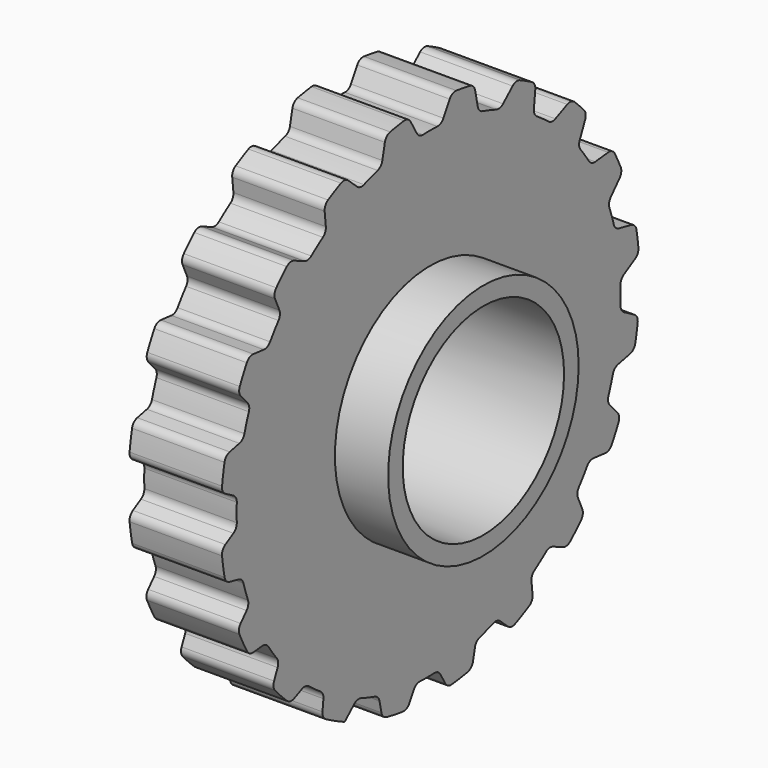
from build123d import *

# Parameters (mm, degrees)
F1_START = 347.5
F0_R     = 93.5
F0_R_2   = 42.5
F1_DEPTH = 33
F3_START = 347.5
F2_R     = 42.5
F2_R_2   = 36
F3_DEPTH = 52
F5_DEPTH = 473
F8_R     = 3


with BuildPart() as f1:
    # F0 (on Right) → F1 (new body)
    with BuildSketch(Plane.YZ.offset(F1_START)):
        Circle(F0_R)
        Circle(F0_R_2, mode=Mode.SUBTRACT)
    extrude(amount=F1_DEPTH)

    # F2 (on Right) → F3 (join)
    with BuildSketch(Plane.YZ.offset(F3_START)):
        Circle(F2_R)
        Circle(F2_R_2, mode=Mode.SUBTRACT)
    extrude(amount=F3_DEPTH)


with BuildPart() as f5:
    # F4 (on Right) → F5 (new body)
    with BuildSketch(Plane.YZ):
        with BuildLine():
            ThreePointArc((-3.2037520284, 84.9396019118), (0, 85), (3.2037520284, 84.9396019118))
            ThreePointArc((3.2037520284, 84.9396019118), (4.7675881381, 85.311582147), (5.9149018408, 86.4374702146))
            Line((5.9149018408, 86.4374702146), (11.3000164755, 95.7647623665))
            Line((11.3000164755, 95.7647623665), (-11.3000164755, 95.7647623665))
            Line((-11.3000164755, 95.7647623665), (-5.9149018408, 86.4374702146))
            ThreePointArc((-5.9149018408, 86.4374702146), (-4.7675881381, 85.311582147), (-3.2037520284, 84.9396019118))
        make_face()
    extrude(amount=F5_DEPTH)


with BuildPart() as f5b:
    # F4 (on Right) → F5, piece 2 (new body)
    with BuildSketch(Plane.YZ):
        with BuildLine():
            Line((-21.7047302001, 82.418587354), (-19.0850360449, 94.7432793543))
            Line((-19.0850360449, 94.7432793543), (-40.5789446515, 87.7594850989))
            Line((-40.5789446515, 87.7594850989), (-31.2152953631, 79.3284174103))
            ThreePointArc((-31.2152953631, 79.3284174103), (-26.5054958365, 81.0134848316), (-21.7047302001, 82.418587354))
        make_face()
    extrude(amount=F5_DEPTH)


with BuildPart() as f5c:
    # F4 (on Right) → F5, piece 3 (new body)
    with BuildSketch(Plane.YZ):
        with BuildLine():
            Line((-46.3502205506, 71.8512850232), (-47.6672826321, 84.3822936754))
            Line((-47.6672826321, 84.3822936754), (-65.951093363, 71.0983276054))
            Line((-65.951093363, 71.0983276054), (-54.4403904944, 65.9734325003))
            ThreePointArc((-54.4403904944, 65.9734325003), (-50.4818194341, 69.0314349455), (-46.3502205506, 71.8512850232))
        make_face()
    extrude(amount=F5_DEPTH)


with BuildPart() as f5d:
    # F4 (on Right) → F5, piece 4 (new body)
    with BuildSketch(Plane.YZ):
        with BuildLine():
            Line((-66.5239987409, 54.1853079288), (-71.6488938461, 65.6960107974))
            Line((-71.6488938461, 65.6960107974), (-84.932859916, 47.4122000665))
            Line((-84.932859916, 47.4122000665), (-72.4018512638, 46.095137985))
            ThreePointArc((-72.4018512638, 46.095137985), (-69.5820011861, 50.2267368685), (-66.5239987409, 54.1853079288))
        make_face()
    extrude(amount=F5_DEPTH)


with BuildPart() as f5e:
    # F4 (on Right) → F5, piece 5 (new body)
    with BuildSketch(Plane.YZ):
        with BuildLine():
            Line((-80.2513148026, 31.1499249949), (-88.6823824913, 40.5135742833))
            Line((-88.6823824913, 40.5135742833), (-95.6661767466, 19.0196656767))
            Line((-95.6661767466, 19.0196656767), (-83.3414847464, 21.6393598319))
            ThreePointArc((-83.3414847464, 21.6393598319), (-81.9363822239, 26.4401254683), (-80.2513148026, 31.1499249949))
        make_face()
    extrude(amount=F5_DEPTH)


with BuildPart() as f5f:
    # F4 (on Right) → F5, piece 6 (new body)
    with BuildSketch(Plane.YZ):
        with BuildLine():
            Line((-86.1884433959, 5), (-97.10039202, 11.3000164755))
            Line((-97.10039202, 11.3000164755), (-97.10039202, -11.3000164755))
            Line((-97.10039202, -11.3000164755), (-86.1884433959, -5))
            ThreePointArc((-86.1884433959, -5), (-86.3356296535, 0), (-86.1884433959, 5))
        make_face()
    extrude(amount=F5_DEPTH)


with BuildPart() as f5g:
    # F4 (on Right) → F5, piece 7 (new body)
    with BuildSketch(Plane.YZ):
        with BuildLine():
            Line((-83.7542170075, -21.7047302001), (-96.0789090077, -19.0850360449))
            Line((-96.0789090077, -19.0850360449), (-89.0951147524, -40.5789446515))
            Line((-89.0951147524, -40.5789446515), (-80.6640470637, -31.2152953631))
            ThreePointArc((-80.6640470637, -31.2152953631), (-82.349114485, -26.5054958365), (-83.7542170075, -21.7047302001))
        make_face()
    extrude(amount=F5_DEPTH)


with BuildPart() as f5h:
    # F4 (on Right) → F5, piece 8 (new body)
    with BuildSketch(Plane.YZ):
        with BuildLine():
            Line((-73.1869146767, -46.3502205506), (-85.7179233288, -47.6672826321))
            Line((-85.7179233288, -47.6672826321), (-72.4339572589, -65.951093363))
            Line((-72.4339572589, -65.951093363), (-67.3090621537, -54.4403904944))
            ThreePointArc((-67.3090621537, -54.4403904944), (-70.3670645989, -50.4818194341), (-73.1869146767, -46.3502205506))
        make_face()
    extrude(amount=F5_DEPTH)


with BuildPart() as f5i:
    # F4 (on Right) → F5, piece 9 (new body)
    with BuildSketch(Plane.YZ):
        with BuildLine():
            Line((-55.5209375822, -66.5239987409), (-67.0316404508, -71.6488938461))
            Line((-67.0316404508, -71.6488938461), (-48.74782972, -84.932859916))
            Line((-48.74782972, -84.932859916), (-47.4307676385, -72.4018512638))
            ThreePointArc((-47.4307676385, -72.4018512638), (-51.5623665219, -69.5820011861), (-55.5209375822, -66.5239987409))
        make_face()
    extrude(amount=F5_DEPTH)


with BuildPart() as f5j:
    # F4 (on Right) → F5, piece 10 (new body)
    with BuildSketch(Plane.YZ):
        with BuildLine():
            Line((-32.4855546483, -80.2513148026), (-41.8492039368, -88.6823824913))
            Line((-41.8492039368, -88.6823824913), (-20.3552953302, -95.6661767466))
            Line((-20.3552953302, -95.6661767466), (-22.9749894854, -83.3414847464))
            ThreePointArc((-22.9749894854, -83.3414847464), (-27.7757551218, -81.9363822239), (-32.4855546483, -80.2513148026))
        make_face()
    extrude(amount=F5_DEPTH)


with BuildPart() as f5k:
    # F4 (on Right) → F5, piece 11 (new body)
    with BuildSketch(Plane.YZ):
        with BuildLine():
            Line((-6.3356296535, -86.1884433959), (-12.635646129, -97.10039202))
            Line((-12.635646129, -97.10039202), (9.9643868221, -97.10039202))
            Line((9.9643868221, -97.10039202), (3.6643703465, -86.1884433959))
            ThreePointArc((3.6643703465, -86.1884433959), (-1.3356296535, -86.3356296535), (-6.3356296535, -86.1884433959))
        make_face()
    extrude(amount=F5_DEPTH)


with BuildPart() as f5l:
    # F4 (on Right) → F5, piece 12 (new body)
    with BuildSketch(Plane.YZ):
        with BuildLine():
            Line((20.3691005466, -83.7542170075), (17.7494063914, -96.0789090077))
            Line((17.7494063914, -96.0789090077), (39.243314998, -89.0951147524))
            Line((39.243314998, -89.0951147524), (29.8796657096, -80.6640470637))
            ThreePointArc((29.8796657096, -80.6640470637), (25.1698661831, -82.349114485), (20.3691005466, -83.7542170075))
        make_face()
    extrude(amount=F5_DEPTH)


with BuildPart() as f5m:
    # F4 (on Right) → F5, piece 13 (new body)
    with BuildSketch(Plane.YZ):
        with BuildLine():
            Line((45.0145908972, -73.1869146767), (46.3316529787, -85.7179233288))
            Line((46.3316529787, -85.7179233288), (64.6154637095, -72.4339572589))
            Line((64.6154637095, -72.4339572589), (53.1047608409, -67.3090621537))
            ThreePointArc((53.1047608409, -67.3090621537), (49.1461897806, -70.3670645989), (45.0145908972, -73.1869146767))
        make_face()
    extrude(amount=F5_DEPTH)


with BuildPart() as f5n:
    # F4 (on Right) → F5, piece 14 (new body)
    with BuildSketch(Plane.YZ):
        with BuildLine():
            Line((65.1883690874, -55.5209375822), (70.3132641926, -67.0316404508))
            Line((70.3132641926, -67.0316404508), (83.5972302625, -48.74782972))
            Line((83.5972302625, -48.74782972), (71.0662216104, -47.4307676385))
            ThreePointArc((71.0662216104, -47.4307676385), (68.2463715326, -51.5623665219), (65.1883690874, -55.5209375822))
        make_face()
    extrude(amount=F5_DEPTH)


with BuildPart() as f5o:
    # F4 (on Right) → F5, piece 15 (new body)
    with BuildSketch(Plane.YZ):
        with BuildLine():
            Line((78.9156851492, -32.4855546483), (87.3467528378, -41.8492039368))
            Line((87.3467528378, -41.8492039368), (94.3305470931, -20.3552953302))
            Line((94.3305470931, -20.3552953302), (82.0058550929, -22.9749894854))
            ThreePointArc((82.0058550929, -22.9749894854), (80.6007525704, -27.7757551218), (78.9156851492, -32.4855546483))
        make_face()
    extrude(amount=F5_DEPTH)


with BuildPart() as f5p:
    # F4 (on Right) → F5, piece 16 (new body)
    with BuildSketch(Plane.YZ):
        with BuildLine():
            Line((84.8528137424, -6.3356296535), (95.7647623665, -12.635646129))
            Line((95.7647623665, -12.635646129), (95.7647623665, 9.9643868221))
            Line((95.7647623665, 9.9643868221), (84.8528137424, 3.6643703465))
            ThreePointArc((84.8528137424, 3.6643703465), (85, -1.3356296535), (84.8528137424, -6.3356296535))
        make_face()
    extrude(amount=F5_DEPTH)


with BuildPart() as f5q:
    # F4 (on Right) → F5, piece 17 (new body)
    with BuildSketch(Plane.YZ):
        with BuildLine():
            Line((82.418587354, 20.3691005466), (94.7432793543, 17.7494063914))
            Line((94.7432793543, 17.7494063914), (87.7594850989, 39.243314998))
            Line((87.7594850989, 39.243314998), (79.3284174103, 29.8796657096))
            ThreePointArc((79.3284174103, 29.8796657096), (81.0134848316, 25.1698661831), (82.418587354, 20.3691005466))
        make_face()
    extrude(amount=F5_DEPTH)


with BuildPart() as f5r:
    # F4 (on Right) → F5, piece 18 (new body)
    with BuildSketch(Plane.YZ):
        with BuildLine():
            Line((71.8512850232, 45.0145908972), (84.3822936754, 46.3316529787))
            Line((84.3822936754, 46.3316529787), (71.0983276054, 64.6154637095))
            Line((71.0983276054, 64.6154637095), (65.9734325003, 53.1047608409))
            ThreePointArc((65.9734325003, 53.1047608409), (69.0314349455, 49.1461897806), (71.8512850232, 45.0145908972))
        make_face()
    extrude(amount=F5_DEPTH)


with BuildPart() as f5s:
    # F4 (on Right) → F5, piece 19 (new body)
    with BuildSketch(Plane.YZ):
        with BuildLine():
            Line((54.1853079288, 65.1883690874), (65.6960107974, 70.3132641926))
            Line((65.6960107974, 70.3132641926), (47.4122000665, 83.5972302625))
            Line((47.4122000665, 83.5972302625), (46.095137985, 71.0662216104))
            ThreePointArc((46.095137985, 71.0662216104), (50.2267368685, 68.2463715326), (54.1853079288, 65.1883690874))
        make_face()
    extrude(amount=F5_DEPTH)


with BuildPart() as f5t:
    # F4 (on Right) → F5, piece 20 (new body)
    with BuildSketch(Plane.YZ):
        with BuildLine():
            Line((31.1499249949, 78.9156851492), (40.5135742833, 87.3467528378))
            Line((40.5135742833, 87.3467528378), (19.0196656767, 94.3305470931))
            Line((19.0196656767, 94.3305470931), (21.6393598319, 82.0058550929))
            ThreePointArc((21.6393598319, 82.0058550929), (26.4401254683, 80.6007525704), (31.1499249949, 78.9156851492))
        make_face()
    extrude(amount=F5_DEPTH)


with BuildPart() as f1_1:
    add(f1.part)

    # F6: cut F5
    add(f5.part, mode=Mode.SUBTRACT)

    # F7: cut F5b, F5c, F5d, F5e, F5f, F5g, F5h, F5i, F5j, F5k, F5l, F5m, F5n, F5o, F5p, F5q, F5r, F5s, F5t
    add(f5b.part, mode=Mode.SUBTRACT)
    add(f5c.part, mode=Mode.SUBTRACT)
    add(f5d.part, mode=Mode.SUBTRACT)
    add(f5e.part, mode=Mode.SUBTRACT)
    add(f5f.part, mode=Mode.SUBTRACT)
    add(f5g.part, mode=Mode.SUBTRACT)
    add(f5h.part, mode=Mode.SUBTRACT)
    add(f5i.part, mode=Mode.SUBTRACT)
    add(f5j.part, mode=Mode.SUBTRACT)
    add(f5k.part, mode=Mode.SUBTRACT)
    add(f5l.part, mode=Mode.SUBTRACT)
    add(f5m.part, mode=Mode.SUBTRACT)
    add(f5n.part, mode=Mode.SUBTRACT)
    add(f5o.part, mode=Mode.SUBTRACT)
    add(f5p.part, mode=Mode.SUBTRACT)
    add(f5q.part, mode=Mode.SUBTRACT)
    add(f5r.part, mode=Mode.SUBTRACT)
    add(f5s.part, mode=Mode.SUBTRACT)
    add(f5t.part, mode=Mode.SUBTRACT)

    # F8
    f8_edges = [f1_1.edges().sort_by_distance(p)[0] for p in [
        (364, -9.701106, 92.995368),
        (364, -19.800035, 91.379476),
        (364, -21.70473, 82.418587),
        (364, -37.994352, 85.432308),
        (364, -47.276784, 80.666943),
        (364, -46.350221, 71.851285),
        (364, -54.44039, 65.973433),
        (364, -62.484784, 69.555027),
        (364, -69.99803, 61.98811),
        (364, -66.523999, 54.185308),
        (364, -72.401851, 46.095138),
        (364, -80.839032, 46.981921),
        (364, -85.754389, 37.261708),
        (364, -91.349654, 19.937171),
        (364, -93.06852, 8.972214),
        (364, -93.06852, -8.972214),
        (364, -80.251315, 31.149925),
        (364, -83.341485, 21.63936),
        (364, -86.188443, 5),
        (364, -86.188443, -5),
        (364, -91.314459, -20.097751),
        (364, -83.754217, -21.70473),
        (364, -80.664047, -31.215295),
        (364, -85.869245, -36.996253),
        (364, -80.744306, -47.144534),
        (364, -73.186915, -46.350221),
        (364, -67.309062, -54.44039),
        (364, -70.443781, -61.481084),
        (364, -62.433048, -69.601469),
        (364, -55.520938, -66.523999),
        (364, -47.430768, -72.401851),
        (364, -48.239354, -80.095036),
        (364, -32.485555, -80.251315),
        (364, -22.974989, -83.341485),
        (364, -21.340301, -91.032091),
        (364, -10.232705, -92.938376),
        (364, -6.33563, -86.188443),
        (364, 3.66437, -86.188443),
        (364, 7.702228, -93.182218),
        (364, 18.699067, -91.611107),
        (364, 20.369101, -83.754217),
        (364, 29.879666, -80.664047),
        (364, 36.088633, -86.254626),
        (364, 45.884837, -81.466752),
        (364, 45.014591, -73.186915),
        (364, 53.104761, -67.309062),
        (364, 61.027962, -70.836699),
        (364, 68.704645, -63.418623),
        (364, 65.188369, -55.520938),
        (364, 71.066222, -47.430768),
        (364, 80.015382, -48.371362),
        (364, 84.911457, -39.144534),
        (364, 78.915685, -32.485555),
        (364, 82.005855, -22.974989),
        (364, 91.10159, -21.041631),
        (364, 92.855866, -10.956194),
        (364, 84.852814, -6.33563),
        (364, 84.852814, 3.66437),
        (364, 93.118598, 8.436623),
        (364, 91.671159, 18.402406),
        (364, 82.418587, 20.369101),
        (364, 79.328417, 29.879666),
        (364, 85.826147, 37.096125),
        (364, 81.39197, 46.017357),
        (364, 71.851285, 45.014591),
        (364, 65.973433, 53.104761),
        (364, 69.951786, 62.04029),
        (364, 62.982156, 69.104978),
        (364, 54.185308, 65.188369),
        (364, 46.095138, 71.066222),
        (364, 47.114206, 80.762006),
        (364, 38.257068, 85.314985),
        (364, 31.149925, 78.915685),
        (364, 21.63936, 82.005855),
        (364, 19.639576, 91.414097),
        (364, 9.701106, 92.995368),
        (364, -31.215295, 79.328417),
    ]]
    fillet(f8_edges, radius=F8_R)


solid = f1_1.part
